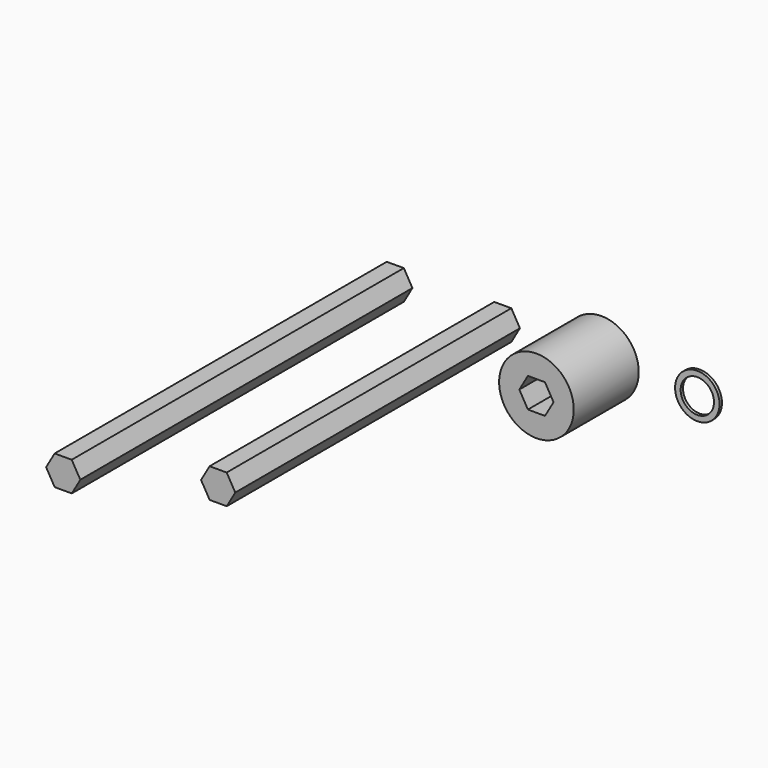
from build123d import *

# Parameters (mm, degrees)
F1_DEPTH = 152.4
F2_DEPTH = 177.8
F3_R     = 15.9766
F4_DEPTH = 34.798
F5_R     = 9.525
F5_R_2   = 7.14375
F6_DEPTH = 1.27


with BuildPart() as f1:
    # F0 (on Front) → F1 (new body)
    with BuildSketch(Plane.XZ):
        Polygon((7.33233, 0.016514), (3.651863, 6.358241), (-3.680466, 6.341727), (-7.33233, -0.016514), (-3.651863, -6.358241), (3.680466, -6.341727), align=None)
    extrude(amount=F1_DEPTH)


with BuildPart() as f2:
    # F0 (on Front) → F2 (new body)
    with BuildSketch(Plane.XZ):
        Polygon((-38.719516, 0.182337), (-42.399982, 6.524064), (-49.732312, 6.50755), (-53.384175, 0.149309), (-49.703709, -6.192418), (-42.371379, -6.175904), align=None)
    extrude(amount=F2_DEPTH)


with BuildPart() as f4:
    # F3 (on Front) → F4 (new body)
    with BuildSketch(Plane.XZ):
        with Locations((42.241306, 0)):
            Circle(F3_R)
        Polygon((34.908957, 0), (38.575132, 6.35), (45.90748, 6.35), (49.573654, 0), (45.90748, -6.35), (38.575132, -6.35), align=None, mode=Mode.SUBTRACT)
    extrude(amount=F4_DEPTH)


with BuildPart() as f6:
    # F5 (on Front) → F6 (new body)
    with BuildSketch(Plane.XZ):
        with Locations((84.318109, 0)):
            Circle(F5_R)
        with Locations((84.318109, 0)):
            Circle(F5_R_2, mode=Mode.SUBTRACT)
    extrude(amount=F6_DEPTH)


solid = Compound([f1.part, f2.part, f4.part, f6.part])
